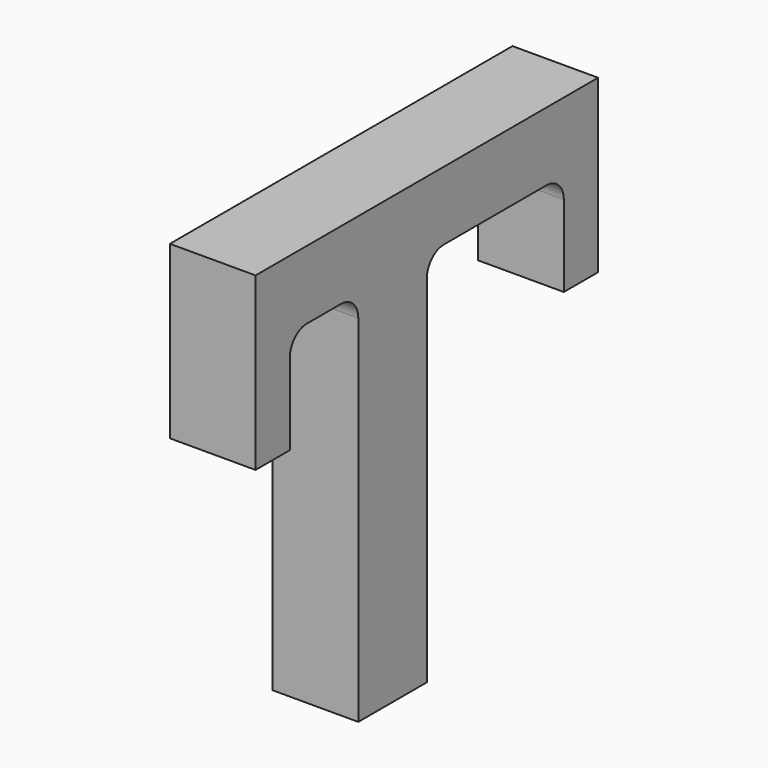
from build123d import *

# Parameters (mm, degrees)
F1_DEPTH = 6.35


with BuildPart() as f1:
    # F0 (on Right) → F1 (new body)
    with BuildSketch(Plane.YZ):
        with BuildLine():
            Line((3.175, 16.51), (-3.175, 16.51))
            Line((-3.175, 16.51), (-9.525, 16.51))
            Line((-9.525, 16.51), (-12.7, 16.51))
            Line((-12.7, 16.51), (-12.7, 3.81))
            Line((-12.7, 3.81), (-9.525, 3.81))
            Line((-9.525, 3.81), (-9.525, 9.8425))
            ThreePointArc((-9.525, 9.8425), (-9.060032, 10.965032), (-7.9375, 11.43))
            Line((-7.9375, 11.43), (-4.7625, 11.43))
            ThreePointArc((-4.7625, 11.43), (-3.639968, 10.965032), (-3.175, 9.8425))
            Line((-3.175, 9.8425), (-3.175, -16.51))
            Line((-3.175, -16.51), (3.175, -16.51))
            Line((3.175, -16.51), (3.175, 9.8425))
            ThreePointArc((3.175, 9.8425), (3.639968, 10.965032), (4.7625, 11.43))
            Line((4.7625, 11.43), (14.2875, 11.43))
            ThreePointArc((14.2875, 11.43), (15.410032, 10.965032), (15.875, 9.8425))
            Line((15.875, 9.8425), (15.875, 3.81))
            Line((15.875, 3.81), (19.05, 3.81))
            Line((19.05, 3.81), (19.05, 16.51))
            Line((19.05, 16.51), (15.875, 16.51))
            Line((15.875, 16.51), (3.175, 16.51))
        make_face()
        with BuildLine():
            Line((3.175, 16.51), (-3.175, 16.51))
            Line((-3.175, 16.51), (-9.525, 16.51))
            Line((-9.525, 16.51), (-12.7, 16.51))
            Line((-12.7, 16.51), (-12.7, 3.81))
            Line((-12.7, 3.81), (-9.525, 3.81))
            Line((-9.525, 3.81), (-9.525, 9.8425))
            ThreePointArc((-9.525, 9.8425), (-9.060032, 10.965032), (-7.9375, 11.43))
            Line((-7.9375, 11.43), (-4.7625, 11.43))
            ThreePointArc((-4.7625, 11.43), (-3.639968, 10.965032), (-3.175, 9.8425))
            Line((-3.175, 9.8425), (-3.175, -16.51))
            Line((-3.175, -16.51), (3.175, -16.51))
            Line((3.175, -16.51), (3.175, 9.8425))
            ThreePointArc((3.175, 9.8425), (3.639968, 10.965032), (4.7625, 11.43))
            Line((4.7625, 11.43), (14.2875, 11.43))
            ThreePointArc((14.2875, 11.43), (15.410032, 10.965032), (15.875, 9.8425))
            Line((15.875, 9.8425), (15.875, 3.81))
            Line((15.875, 3.81), (19.05, 3.81))
            Line((19.05, 3.81), (19.05, 16.51))
            Line((19.05, 16.51), (15.875, 16.51))
            Line((15.875, 16.51), (3.175, 16.51))
        make_face()
    extrude(amount=F1_DEPTH)


solid = f1.part
